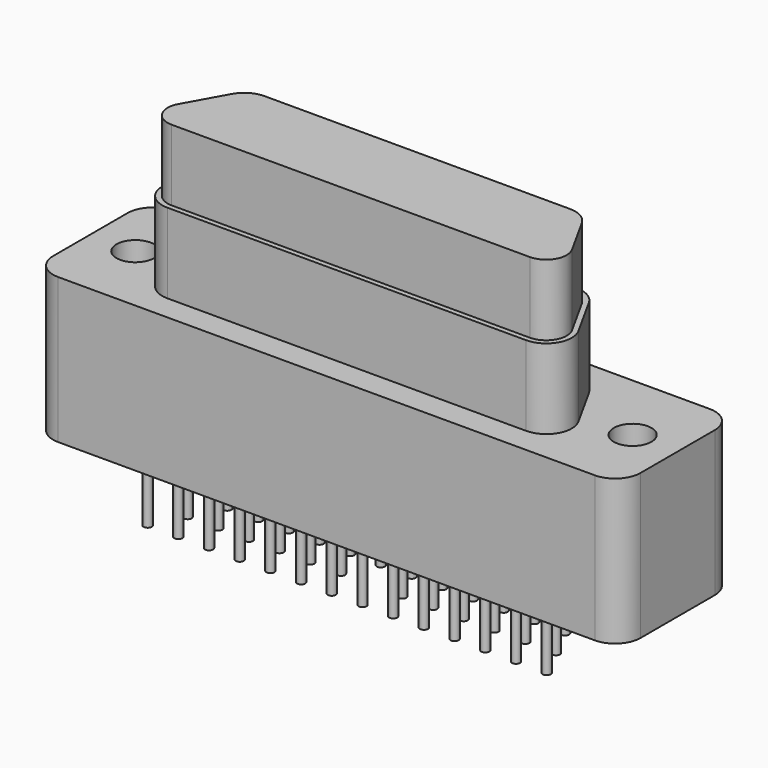
from build123d import *

# Parameters (mm, degrees)
F0_R     = 1.1684
F1_DEPTH = 4.5085
F3_DEPTH = 4.953
F5_DEPTH = 4.4069
F6_R     = 0.254
F7_DEPTH = 3.81


with BuildPart() as f1:
    # F0 (on Top) → F1 (new body, symmetric)
    with BuildSketch(Plane.XY):
        with BuildLine():
            Line((16.6497, 4.4577), (-16.6497, 4.4577))
            ThreePointArc((-16.6497, 4.4577), (-17.763252, 3.996452), (-18.2245, 2.8829))
            Line((-18.2245, 2.8829), (-18.2245, -2.8829))
            ThreePointArc((-18.2245, -2.8829), (-17.763252, -3.996452), (-16.6497, -4.4577))
            Line((-16.6497, -4.4577), (16.6497, -4.4577))
            ThreePointArc((16.6497, -4.4577), (17.763252, -3.996452), (18.2245, -2.8829))
            Line((18.2245, -2.8829), (18.2245, 2.8829))
            ThreePointArc((18.2245, 2.8829), (17.763252, 3.996452), (16.6497, 4.4577))
        make_face()
        with Locations((-15.4305, 0)):
            Circle(F0_R, mode=Mode.SUBTRACT)
        with Locations((15.4305, 0)):
            Circle(F0_R, mode=Mode.SUBTRACT)
    extrude(amount=F1_DEPTH, both=True)

    # F2 (on face) → F3 (join)
    with BuildSketch(Plane.XY.offset(4.5085)):
        with BuildLine():
            Line((-11.13142, -2.8956), (11.132878, -2.8956))
            ThreePointArc((11.132878, -2.8956), (12.489771, -2.120071), (12.510229, -0.557322))
            Line((12.510229, -0.557322), (11.045966, 2.084278))
            ThreePointArc((11.045966, 2.084278), (10.467886, 2.677694), (9.668615, 2.8956))
            Line((9.668615, 2.8956), (-9.667157, 2.8956))
            ThreePointArc((-9.667157, 2.8956), (-10.466429, 2.677694), (-11.044508, 2.084278))
            Line((-11.044508, 2.084278), (-12.508771, -0.557322))
            ThreePointArc((-12.508771, -0.557322), (-12.488314, -2.120071), (-11.13142, -2.8956))
        make_face()
    extrude(amount=F3_DEPTH)

    # F4 (on face) → F5 (join)
    with BuildSketch(Plane.XY.offset(9.4615)):
        with BuildLine():
            Line((9.481593, 2.5781), (-9.480136, 2.5781))
            ThreePointArc((-9.480136, 2.5781), (-10.279407, 2.360194), (-10.857487, 1.766778))
            Line((-10.857487, 1.766778), (-12.220627, -0.692392))
            ThreePointArc((-12.220627, -0.692392), (-12.204129, -1.952674), (-11.10986, -2.5781))
            Line((-11.10986, -2.5781), (11.111317, -2.5781))
            ThreePointArc((11.111317, -2.5781), (12.205586, -1.952674), (12.222084, -0.692392))
            Line((12.222084, -0.692392), (10.858944, 1.766778))
            ThreePointArc((10.858944, 1.766778), (10.280864, 2.360194), (9.481593, 2.5781))
        make_face()
    extrude(amount=F5_DEPTH)

    # F6 (on face) → F7 (join)
    with BuildSketch(Plane(origin=(0, 0, -4.5085), x_dir=(1, 0, 0), z_dir=(0, 0, -1))):
        with Locations((-12.3825, 2.8575)):
            Circle(F6_R)
        with Locations((-10.4775, 2.8575)):
            Circle(F6_R)
        with Locations((-8.5725, 2.8575)):
            Circle(F6_R)
        with Locations((-6.6675, 2.8575)):
            Circle(F6_R)
        with Locations((-4.7625, 2.8575)):
            Circle(F6_R)
        with Locations((-2.8575, 2.8575)):
            Circle(F6_R)
        with Locations((-0.9525, 2.8575)):
            Circle(F6_R)
        with Locations((0.9525, 2.8575)):
            Circle(F6_R)
        with Locations((2.8575, 2.8575)):
            Circle(F6_R)
        with Locations((4.7625, 2.8575)):
            Circle(F6_R)
        with Locations((6.6675, 2.8575)):
            Circle(F6_R)
        with Locations((8.5725, 2.8575)):
            Circle(F6_R)
        with Locations((10.4775, 2.8575)):
            Circle(F6_R)
        with Locations((12.3825, 2.8575)):
            Circle(F6_R)
        with Locations((-11.43, 0.9525)):
            Circle(F6_R)
        with Locations((-9.525, 0.9525)):
            Circle(F6_R)
        with Locations((-7.62, 0.9525)):
            Circle(F6_R)
        with Locations((-5.715, 0.9525)):
            Circle(F6_R)
        with Locations((-3.81, 0.9525)):
            Circle(F6_R)
        with Locations((-1.905, 0.9525)):
            Circle(F6_R)
        with Locations((-10.4775, -0.9525)):
            Circle(F6_R)
        with Locations((-8.5725, -0.9525)):
            Circle(F6_R)
        with Locations((-6.6675, -0.9525)):
            Circle(F6_R)
        with Locations((-4.7625, -0.9525)):
            Circle(F6_R)
        with Locations((-2.8575, -0.9525)):
            Circle(F6_R)
        with Locations((-0.9525, -0.9525)):
            Circle(F6_R)
        with Locations((9.525, 0.9525)):
            Circle(F6_R)
        with Locations((7.62, 0.9525)):
            Circle(F6_R)
        with Locations((6.6675, -0.9525)):
            Circle(F6_R)
        with Locations((11.43, 0.9525)):
            Circle(F6_R)
        with Locations((4.7625, -0.9525)):
            Circle(F6_R)
        with Locations((2.8575, -0.9525)):
            Circle(F6_R)
        with Locations((5.715, 0.9525)):
            Circle(F6_R)
        with Locations((8.5725, -0.9525)):
            Circle(F6_R)
        with Locations((1.905, 0.9525)):
            Circle(F6_R)
        with Locations((3.81, 0.9525)):
            Circle(F6_R)
        with Locations((10.4775, -0.9525)):
            Circle(F6_R)
        with Locations((0.9525, -0.9525)):
            Circle(F6_R)
        with Locations((-11.43, -2.8575)):
            Circle(F6_R)
        with Locations((-9.525, -2.8575)):
            Circle(F6_R)
        with Locations((-7.62, -2.8575)):
            Circle(F6_R)
        with Locations((-5.715, -2.8575)):
            Circle(F6_R)
        with Locations((-3.81, -2.8575)):
            Circle(F6_R)
        with Locations((-1.905, -2.8575)):
            Circle(F6_R)
        with Locations((0, -2.8575)):
            Circle(F6_R)
        with Locations((1.905, -2.8575)):
            Circle(F6_R)
        with Locations((3.81, -2.8575)):
            Circle(F6_R)
        with Locations((5.715, -2.8575)):
            Circle(F6_R)
        with Locations((7.62, -2.8575)):
            Circle(F6_R)
        with Locations((9.525, -2.8575)):
            Circle(F6_R)
        with Locations((11.43, -2.8575)):
            Circle(F6_R)
    extrude(amount=F7_DEPTH)


solid = f1.part
